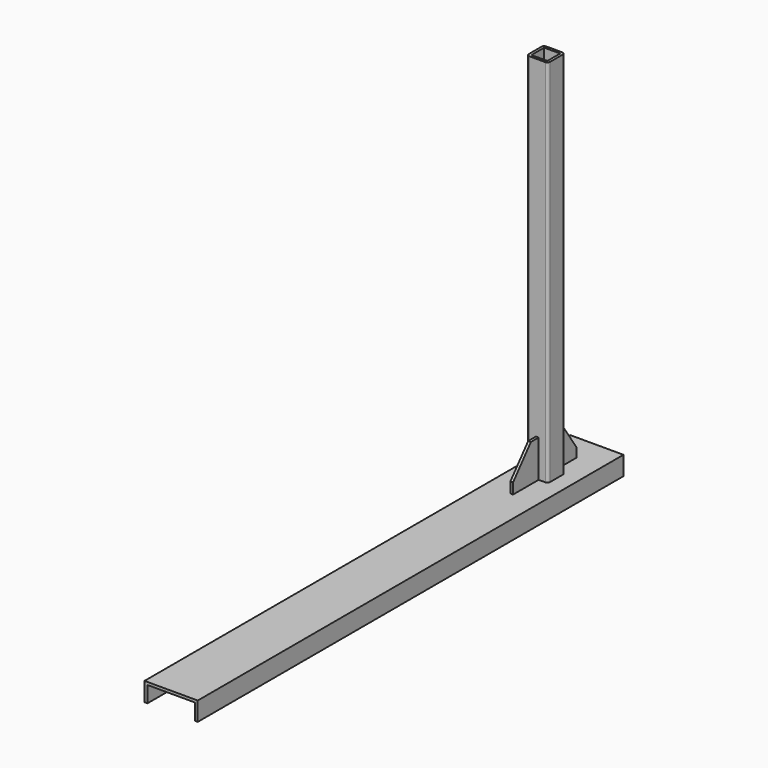
from build123d import *

# Parameters (mm, degrees)
F0_W      = 30
F0_H      = 30
F1_DEPTH  = 700
F2_W      = 100
F2_H      = 1000
F3_DEPTH  = 5
F4_W      = 4.7787350416
F4_H      = 30.3992684931
F4_W_2    = 5.5340740085
F5_DEPTH  = 1000
F7_DEPTH  = 50
F9_DEPTH  = 25
F10_W     = 5
F10_H     = 70
F11_DEPTH = 60
F13_DEPTH = 25


with BuildPart() as f1:
    # F0 (on Top) → F1 (new body)
    with BuildSketch(Plane.XY):
        with BuildLine():
            ThreePointArc((0, 5), (1.4644660941, 1.4644660941), (5, 0))
            Line((5, 0), (35, 0))
            ThreePointArc((35, 0), (38.5355339059, 1.4644660941), (40, 5))
            Line((40, 5), (40, 35))
            ThreePointArc((40, 35), (38.5355339059, 38.5355339059), (35, 40))
            Line((35, 40), (5, 40))
            ThreePointArc((5, 40), (1.4644660941, 38.5355339059), (0, 35))
            Line((0, 35), (0, 5))
        make_face()
        with Locations((20, 20)):
            Rectangle(F0_W, F0_H, mode=Mode.SUBTRACT)
    extrude(amount=F1_DEPTH)

    # F2 (on Top) → F3 (join)
    with BuildSketch(Plane.XY):
        with Locations((20, -360)):
            Rectangle(F2_W, F2_H)
        with Locations((20, -360)):
            Rectangle(F2_W, F2_H)
    extrude(amount=F3_DEPTH)

    # F4 (on face) → F5 (join)
    with BuildSketch(Plane(origin=(0, 140, 0), x_dir=(-1, 0, 0), z_dir=(0, 1, 0))):
        with Locations((-67.6106324792, -15.1996342465)):
            Rectangle(F4_W, F4_H)
        with Locations((27.2329629958, -15.1996342465)):
            Rectangle(F4_W_2, F4_H)
    extrude(amount=-F5_DEPTH)

    # F6 (on face) → F7 (join)
    with BuildSketch(Plane(origin=(0, 40, 0), x_dir=(-1, 0, 0), z_dir=(0, 1, 0))):
        Polygon((-17, 5), (-17, 75), (-22, 75), (-22, 5), (-20, 5), align=None)
    extrude(amount=F7_DEPTH)

    # F8 (on face) → F9 (cut)
    with BuildSketch(Plane(origin=(17, 0, 0), x_dir=(0, -1, 0), z_dir=(-1, 0, 0))):
        Polygon((-90, 21.7283517122), (-54.0427826345, 75), (-54.0427826345, 81.2046378851), (-94.0335020423, 81.2046378851), (-94.0335020423, 21.7283517122), align=None)
    extrude(amount=-F9_DEPTH, mode=Mode.SUBTRACT)

    # F10 (on face) → F11 (join)
    with BuildSketch(Plane.XZ):
        with Locations((20, 40)):
            Rectangle(F10_W, F10_H)
    extrude(amount=F11_DEPTH)

    # F12 (on face) → F13 (cut)
    with BuildSketch(Plane.YZ.offset(22.5)):
        Polygon((-60, 25.1793347407), (-18.1954981559, 75), (-60, 75), align=None)
    extrude(amount=-F13_DEPTH, mode=Mode.SUBTRACT)


solid = f1.part
